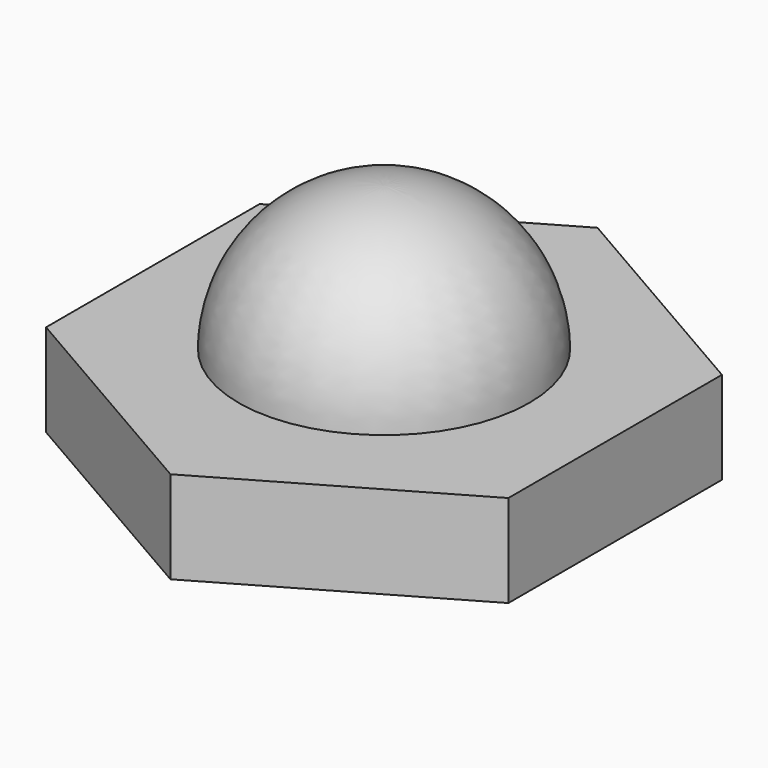
from build123d import *

# Parameters (mm, degrees)
F1_DEPTH = 25.4


with BuildPart() as f1:
    # F0 (on Top) → F1 (new body)
    with BuildSketch(Plane.XY):
        Polygon((0, 73.323484), (-63.5, 36.661742), (-63.5, -36.661742), (0, -73.323484), (63.5, -36.661742), (63.5, 36.661742), align=None)
    extrude(amount=F1_DEPTH)

    # F2 (on Front) → F3 (revolve)
    with BuildSketch(Plane.XZ):
        with BuildLine():
            Line((0, 25.4), (39.938714, 25.845195))
            ThreePointArc((39.938714, 25.845195), (28.084849, 53.799654), (0, 65.341196))
            Line((0, 65.341196), (0, 25.4))
        make_face()
    revolve(axis=Axis((0, 0, 45.370598), (0, 0, -1)))


solid = f1.part
